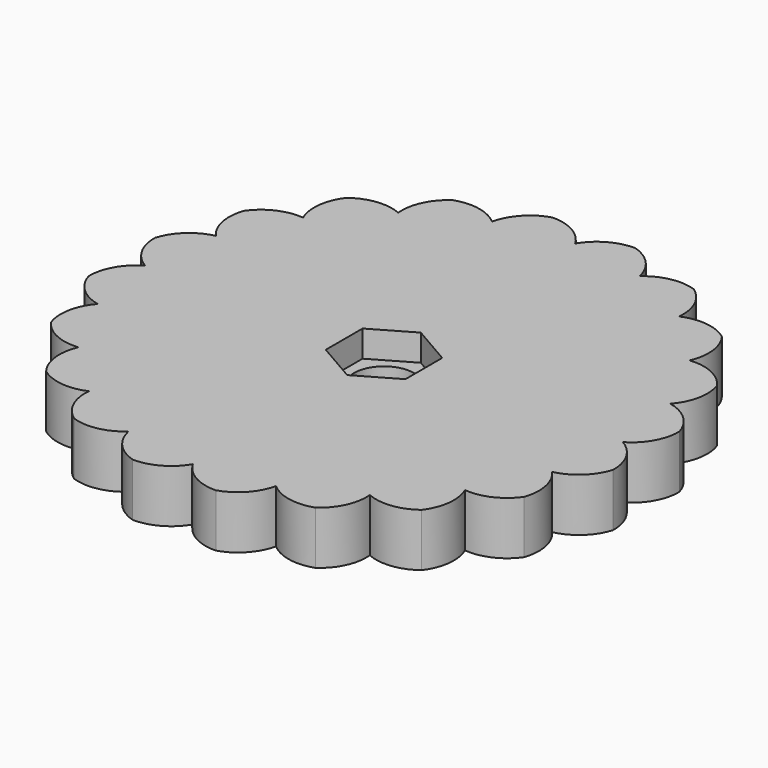
from build123d import *

# Parameters (mm, degrees)
F2_DEPTH = 12.7
F1_R     = 7.14375
F3_DEPTH = 6.35


with BuildPart() as f2:
    # F1 (on Top) → F2 (new body)
    with BuildSketch(Plane.XY):
        with BuildLine():
            ThreePointArc((57.15, 0), (61.2719466085, 4.2155230865), (62.7124900485, 9.9326826377))
            ThreePointArc((62.7124900485, 9.9326826377), (59.575752362, 14.9248720794), (54.3528799063, 17.6603212285))
            ThreePointArc((54.3528799063, 17.6603212285), (56.9704158142, 22.9432734815), (56.5737545789, 28.8257677314))
            ThreePointArc((56.5737545789, 28.8257677314), (52.0478683856, 32.6043167785), (46.2353212285, 33.5919271685))
            ThreePointArc((46.2353212285, 33.5919271685), (47.0922237837, 39.4251764129), (44.8971858387, 44.8971858387))
            ThreePointArc((44.8971858387, 44.8971858387), (39.4251764129, 47.0922237837), (33.5919271685, 46.2353212285))
            ThreePointArc((33.5919271685, 46.2353212285), (32.6043167785, 52.0478683856), (28.8257677314, 56.5737545789))
            ThreePointArc((28.8257677314, 56.5737545789), (22.9432734815, 56.9704158142), (17.6603212285, 54.3528799063))
            ThreePointArc((17.6603212285, 54.3528799063), (14.9248720794, 59.575752362), (9.9326826377, 62.7124900485))
            ThreePointArc((9.9326826377, 62.7124900485), (4.2155230865, 61.2719466085), (0, 57.15))
            ThreePointArc((0, 57.15), (-4.2155230865, 61.2719466085), (-9.9326826377, 62.7124900485))
            ThreePointArc((-9.9326826377, 62.7124900485), (-14.9248720794, 59.575752362), (-17.6603212285, 54.3528799063))
            ThreePointArc((-17.6603212285, 54.3528799063), (-22.9432734815, 56.9704158142), (-28.8257677314, 56.5737545789))
            ThreePointArc((-28.8257677314, 56.5737545789), (-32.6043167785, 52.0478683856), (-33.5919271685, 46.2353212285))
            ThreePointArc((-33.5919271685, 46.2353212285), (-39.4251764129, 47.0922237837), (-44.8971858387, 44.8971858387))
            ThreePointArc((-44.8971858387, 44.8971858387), (-47.0922237837, 39.4251764129), (-46.2353212285, 33.5919271685))
            ThreePointArc((-46.2353212285, 33.5919271685), (-52.0478683856, 32.6043167785), (-56.5737545789, 28.8257677314))
            ThreePointArc((-56.5737545789, 28.8257677314), (-56.9704158142, 22.9432734815), (-54.3528799063, 17.6603212285))
            ThreePointArc((-54.3528799063, 17.6603212285), (-59.575752362, 14.9248720794), (-62.7124900485, 9.9326826377))
            ThreePointArc((-62.7124900485, 9.9326826377), (-61.2719466085, 4.2155230865), (-57.15, 0))
            ThreePointArc((-57.15, 0), (-61.2719466085, -4.2155230865), (-62.7124900485, -9.9326826377))
            ThreePointArc((-62.7124900485, -9.9326826377), (-59.575752362, -14.9248720794), (-54.3528799063, -17.6603212285))
            ThreePointArc((-54.3528799063, -17.6603212285), (-56.9704158142, -22.9432734815), (-56.5737545789, -28.8257677314))
            ThreePointArc((-56.5737545789, -28.8257677314), (-52.0478683856, -32.6043167785), (-46.2353212285, -33.5919271685))
            ThreePointArc((-46.2353212285, -33.5919271685), (-47.0922237837, -39.4251764129), (-44.8971858387, -44.8971858387))
            ThreePointArc((-44.8971858387, -44.8971858387), (-39.4251764129, -47.0922237837), (-33.5919271685, -46.2353212285))
            ThreePointArc((-33.5919271685, -46.2353212285), (-32.6043167785, -52.0478683856), (-28.8257677314, -56.5737545789))
            ThreePointArc((-28.8257677314, -56.5737545789), (-22.9432734815, -56.9704158142), (-17.6603212285, -54.3528799063))
            ThreePointArc((-17.6603212285, -54.3528799063), (-14.9248720794, -59.575752362), (-9.9326826377, -62.7124900485))
            ThreePointArc((-9.9326826377, -62.7124900485), (-4.2155230865, -61.2719466085), (0, -57.15))
            ThreePointArc((0, -57.15), (4.2155230865, -61.2719466085), (9.9326826377, -62.7124900485))
            ThreePointArc((9.9326826377, -62.7124900485), (14.9248720794, -59.575752362), (17.6603212285, -54.3528799063))
            ThreePointArc((17.6603212285, -54.3528799063), (22.9432734815, -56.9704158142), (28.8257677314, -56.5737545789))
            ThreePointArc((28.8257677314, -56.5737545789), (32.6043167785, -52.0478683856), (33.5919271685, -46.2353212285))
            ThreePointArc((33.5919271685, -46.2353212285), (39.4251764129, -47.0922237837), (44.8971858387, -44.8971858387))
            ThreePointArc((44.8971858387, -44.8971858387), (47.0922237837, -39.4251764129), (46.2353212285, -33.5919271685))
            ThreePointArc((46.2353212285, -33.5919271685), (52.0478683856, -32.6043167785), (56.5737545789, -28.8257677314))
            ThreePointArc((56.5737545789, -28.8257677314), (56.9704158142, -22.9432734815), (54.3528799063, -17.6603212285))
            ThreePointArc((54.3528799063, -17.6603212285), (59.575752362, -14.9248720794), (62.7124900485, -9.9326826377))
            ThreePointArc((62.7124900485, -9.9326826377), (61.2719466085, -4.2155230865), (57.15, 0))
        make_face()
        Polygon((0, 10.9985226281), (9.525, 5.499261314), (9.525, -5.499261314), (0, -10.9985226281), (-9.525, -5.499261314), (-9.525, 5.499261314), align=None, mode=Mode.SUBTRACT)
    extrude(amount=F2_DEPTH)

    # F1 (on Top) → F3 (join)
    with BuildSketch(Plane.XY):
        Polygon((9.525, -5.499261314), (9.525, 5.499261314), (0, 10.9985226281), (-9.525, 5.499261314), (-9.525, -5.499261314), (0, -10.9985226281), align=None)
        Circle(F1_R, mode=Mode.SUBTRACT)
    extrude(amount=F3_DEPTH)


solid = f2.part
